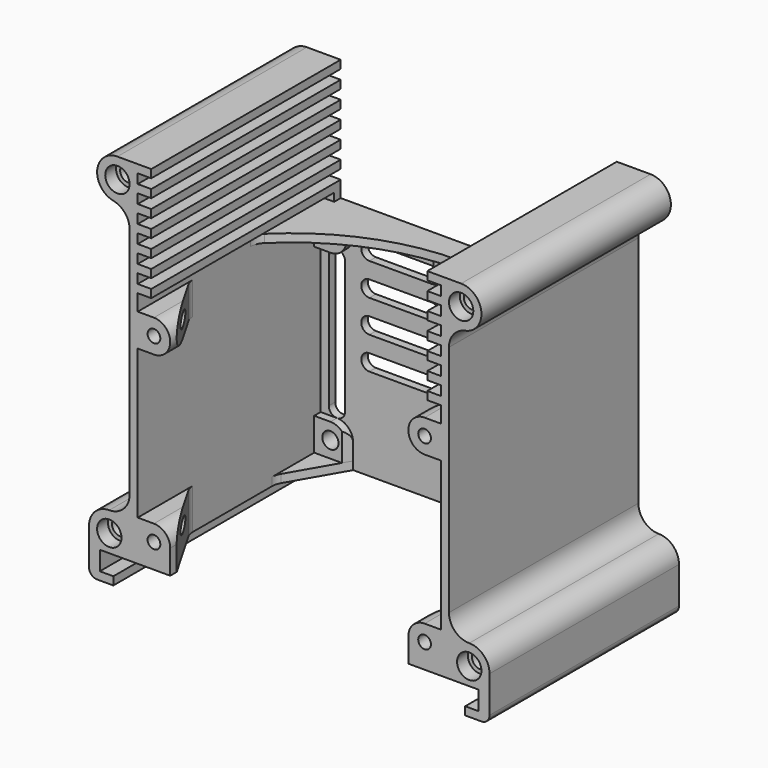
from build123d import *

# Parameters (mm, degrees)
PAD_DEPTH              = 87.5
POCKET_DEPTH           = 87.501
SKETCH002_W            = 56
SKETCH002_H            = 88
POCKET001_DEPTH        = 84.5
SKETCH003_W            = 51
SKETCH003_H            = 45
POCKET002_DEPTH        = 87.501
POCKET003_DEPTH        = 87.501
SKETCH004_W            = 5
SKETCH004_H            = 3.5
POCKET004_DEPTH        = 87.501
LINEARPATTERN_COUNT    = 6
LINEARPATTERN_PITCH    = 6.5
PAD001_DEPTH           = 3
SKETCH006_W            = 12
SKETCH006_H            = 12
PAD002_DEPTH           = 3
FILLET_R               = 6
SKETCH007_W            = 12
SKETCH007_H            = 12
PAD003_DEPTH           = 25
PAD004_DEPTH           = 3
POCKET005_DEPTH        = 12
POCKET006_DEPTH        = 79
FILLET001_R            = 6
FILLET002_R            = 6
SKETCH011_W            = 12
SKETCH011_H            = 12
PAD005_DEPTH           = 3
FILLET003_R            = 6
POCKET007_DEPTH        = 3.001
POCKET008_DEPTH        = 5
POCKET009_DEPTH        = 3.001
LINEARPATTERN001_COUNT = 4
LINEARPATTERN001_PITCH = 12
SKETCH015_R            = 3
POCKET010_DEPTH        = 6.001
SKETCH016_R            = 2.35
POCKET011_DEPTH        = 87.501
FILLET004_R            = 3
SKETCH017_R            = 3
POCKET012_DEPTH        = 87.501
SKETCH018_R            = 4.5
POCKET013_DEPTH        = 5
SKETCH019_R            = 4.5
POCKET014_DEPTH        = 5


with BuildPart() as part:
    # Sketch → Pad (new body)
    with BuildSketch(Plane.XZ):
        with BuildLine():
            Line((0, -70), (74, -70))
            Line((74, -70), (74, -53.5))
            ThreePointArc((74, -53.5), (71.803301, -48.196699), (66.5, -46))
            ThreePointArc((59, -38.5), (61.196699, -43.803301), (66.5, -46))
            Line((59, -38.5), (59, 47.803062))
            ThreePointArc((65, 55.151531), (60.690525, 52.546478), (59, 47.803062))
            ThreePointArc((65, 55.151531), (70.962021, 63.253817), (63.5, 70))
            Line((63.5, 70), (0, 70))
            Line((0, 70), (0, -70))
        make_face()
    extrude(amount=PAD_DEPTH)

    # Sketch001 (on Face11 of Pad) → Pocket (cut, through all)
    with BuildSketch(Plane.XZ.offset(87.5)):
        Polygon((0, -60), (0, -70), (65, -70), (65, -67), (70, -67), (70, -60), align=None)
    extrude(amount=-POCKET_DEPTH, mode=Mode.SUBTRACT)

    # Sketch002 (on Face4 of Pocket) → Pocket001 (cut)
    with BuildSketch(Plane.XZ.offset(87.5)):
        with Locations((28, -16)):
            Rectangle(SKETCH002_W, SKETCH002_H)
    extrude(amount=-POCKET001_DEPTH, mode=Mode.SUBTRACT)

    # Sketch003 (on Face4 of Pocket001) → Pocket002 (cut, through all)
    with BuildSketch(Plane.XZ.offset(87.5)):
        with Locations((25.5, 47.5)):
            Rectangle(SKETCH003_W, SKETCH003_H)
    extrude(amount=-POCKET002_DEPTH, mode=Mode.SUBTRACT)

    # Sketch003 (on Face4 of Pocket001) → Pocket003 (cut, through all)
    with BuildSketch(Plane.XZ.offset(87.5)):
        with Locations((25.5, 47.5)):
            Rectangle(SKETCH003_W, SKETCH003_H)
    extrude(amount=-POCKET003_DEPTH, mode=Mode.SUBTRACT)

    # Sketch004 (on Face4 of Pocket003) → Pocket004 (cut, through all)
    with BuildSketch(Plane.XZ.offset(87.5)):
        with Locations((53.5, 65.25)):
            Rectangle(SKETCH004_W, SKETCH004_H)
    pocket004 = extrude(amount=-POCKET004_DEPTH, mode=Mode.SUBTRACT)

    # LinearPattern: Pocket004 ×6
    with Locations(*[(0, 0, -i * LINEARPATTERN_PITCH) for i in range(1, LINEARPATTERN_COUNT)]):
        add(pocket004, mode=Mode.SUBTRACT)

    # Sketch005 (on Face37 of LinearPattern) → Pad001 (join)
    with BuildSketch(Plane(origin=(0, 0, 25), x_dir=(-1, 0, 0), z_dir=(0, 0, 1))):
        with BuildLine():
            Line((0, 3), (-56, 3))
            Line((-56, 3), (-56, 33))
            ThreePointArc((-56, 33), (-30.463092, 15.252784), (0, 9))
            Line((0, 3), (0, 9))
        make_face()
    extrude(amount=-PAD001_DEPTH)

    # Sketch006 (on Face43 of Pad001) → Pad002 (join)
    with BuildSketch(Plane.XZ.offset(3)):
        with Locations((50, 16)):
            Rectangle(SKETCH006_W, SKETCH006_H)
        with Locations((50, -51)):
            Rectangle(SKETCH006_W, SKETCH006_H)
    extrude(amount=PAD002_DEPTH)

    # Fillet
    fillet_edges = [part.edges().sort_by_distance(p)[0] for p in [
        (44, -4.5, -45),
        (44, -4.5, 10),
    ]]
    fillet(fillet_edges, radius=FILLET_R)

    # Sketch007 (on Face14 of Fillet) → Pad003 (join)
    with BuildSketch(Plane.XZ.offset(87.5)):
        with BuildLine():
            Line((56, 22), (56, 10))
            Line((56, 10), (50, 10))
            ThreePointArc((50, 22), (44, 16), (50, 10))
            Line((50, 22), (56, 22))
        make_face()
        with Locations((50, -51)):
            Rectangle(SKETCH007_W, SKETCH007_H)
    extrude(amount=-PAD003_DEPTH)

    # Sketch008 (on Face7 of Pad003) → Pad004 (join)
    with BuildSketch(Plane(origin=(0, 0, -60), x_dir=(1, 0, 0), z_dir=(0, 0, -1))):
        Polygon((56, 87.5), (44, 87.5), (44, 84.5), (56, 63.71539), align=None)
        Polygon((56, 23.78461), (44, 3), (56, 3), align=None)
    extrude(amount=-PAD004_DEPTH)

    # Sketch009 (on Face28 of Pad004) → Pocket005 (cut)
    with BuildSketch(Plane(origin=(0, 0, -57), x_dir=(1, 0, 0), z_dir=(0, 0, -1))):
        Polygon((44, 3), (44, 6), (45.732051, 6), align=None)
    extrude(amount=-POCKET005_DEPTH, mode=Mode.SUBTRACT)

    # Sketch010 (on Face13 of Pocket005) → Pocket006 (cut)
    with BuildSketch(Plane(origin=(0, 0, -57), x_dir=(1, 0, 0), z_dir=(0, 0, -1))):
        Polygon((44, 84.5), (44, 62.5), (56, 62.5), (56, 63.71539), align=None)
    extrude(amount=-POCKET006_DEPTH, mode=Mode.SUBTRACT)

    # Fillet001
    fillet001_edges = [part.edges().sort_by_distance(p)[0] for p in [
        (44, -86, -45),
    ]]
    fillet(fillet001_edges, radius=FILLET001_R)

    # Fillet002
    fillet002_edges = [part.edges().sort_by_distance(p)[0] for p in [
        (56, -63.71539, 16),
        (56, -63.71539, -52.5),
        (56, -23.78461, -58.5),
        (56, -33, 23.5),
    ]]
    fillet(fillet002_edges, radius=FILLET002_R)

    # Sketch011 (on Face14 of Fillet002) → Pad005 (join)
    with BuildSketch(Plane.XZ.offset(3)):
        with Locations((6, 16)):
            Rectangle(SKETCH011_W, SKETCH011_H)
    extrude(amount=PAD005_DEPTH)

    # Fillet003
    fillet003_edges = [part.edges().sort_by_distance(p)[0] for p in [
        (12, -4.5, 10),
    ]]
    fillet(fillet003_edges, radius=FILLET003_R)

    # Sketch012 (on Face1 of Fillet003) → Pocket007 (cut, through all)
    with BuildSketch(Plane.XZ.offset(3)):
        with BuildLine():
            ThreePointArc((53, 7), (50, 10), (47, 7))
            Line((47, 7), (47, -42))
            ThreePointArc((47, -42), (50, -45), (53, -42))
            Line((53, 7), (53, -42))
        make_face()
    extrude(amount=-POCKET007_DEPTH, mode=Mode.SUBTRACT)

    # Sketch013 (on Face1 of Pocket007) → Pocket008 (cut)
    with BuildSketch(Plane.XZ.offset(3)):
        with BuildLine():
            ThreePointArc((3, 4), (0, 7), (-3, 4))
            Line((-3, 4), (-3, -36))
            ThreePointArc((-3, -36), (0, -39), (3, -36))
            Line((3, 4), (3, -36))
        make_face()
    extrude(amount=-POCKET008_DEPTH, mode=Mode.SUBTRACT)

    # Sketch014 (on Face1 of Pocket008) → Pocket009 (cut, through all)
    with BuildSketch(Plane.XZ.offset(3)):
        with BuildLine():
            ThreePointArc((15, 16), (12, 13), (15, 10))
            Line((15, 10), (38, 10))
            ThreePointArc((38, 10), (41, 13), (38, 16))
            Line((15, 16), (38, 16))
        make_face()
    pocket009 = extrude(amount=-POCKET009_DEPTH, mode=Mode.SUBTRACT)

    # LinearPattern001: Pocket009 ×4
    with Locations(*[(0, 0, -i * LINEARPATTERN001_PITCH) for i in range(1, LINEARPATTERN001_COUNT)]):
        add(pocket009, mode=Mode.SUBTRACT)

    # Sketch015 (on Face37 of LinearPattern001) → Pocket010 (cut, through all)
    with BuildSketch(Plane.XZ.offset(6)):
        with Locations((6, 16)):
            Circle(SKETCH015_R)
        with Locations((50, 16)):
            Circle(SKETCH015_R)
        with Locations((50, -51)):
            Circle(SKETCH015_R)
    extrude(amount=-POCKET010_DEPTH, mode=Mode.SUBTRACT)

    # Sketch016 (on Face48 of Pocket010) → Pocket011 (cut, through all)
    with BuildSketch(Plane.XZ.offset(87.5)):
        with Locations((50, 16)):
            Circle(SKETCH016_R)
        with Locations((50, -51)):
            Circle(SKETCH016_R)
    extrude(amount=-POCKET011_DEPTH, mode=Mode.SUBTRACT)

    # Fillet004
    fillet004_edges = [part.edges().sort_by_distance(p)[0] for p in [
        (74, -43.75, -70),
    ]]
    fillet(fillet004_edges, radius=FILLET004_R)

    # Sketch017 (on Face69 of Fillet004) → Pocket012 (cut, through all)
    with BuildSketch(Plane.XZ.offset(87.5)):
        with Locations((63.5, 62.5)):
            Circle(SKETCH017_R)
        with Locations((66.5, -53.5)):
            Circle(SKETCH017_R)
    extrude(amount=-POCKET012_DEPTH, mode=Mode.SUBTRACT)

    # Sketch018 (on Face71 of Pocket012) → Pocket013 (cut)
    with BuildSketch(Plane.XZ.offset(87.5)):
        with Locations((66.5, -53.5)):
            Circle(SKETCH018_R)
        with Locations((63.5, 62.5)):
            Circle(SKETCH018_R)
    extrude(amount=-POCKET013_DEPTH, mode=Mode.SUBTRACT)

    # Sketch019 (on Face1 of Pocket013) → Pocket014 (cut)
    with BuildSketch(Plane(origin=(0, 0, 0), x_dir=(1, 0, 0), z_dir=(0, 1, 0))):
        with Locations((66.5, 53.5)):
            Circle(SKETCH019_R)
        with Locations((63.5, -62.5)):
            Circle(SKETCH019_R)
    extrude(amount=-POCKET014_DEPTH, mode=Mode.SUBTRACT)

    # Mirrored: part across YZ


with BuildPart() as part_1:
    add(part.part)
    add(part.part.mirror(Plane.YZ))


solid = part_1.part
